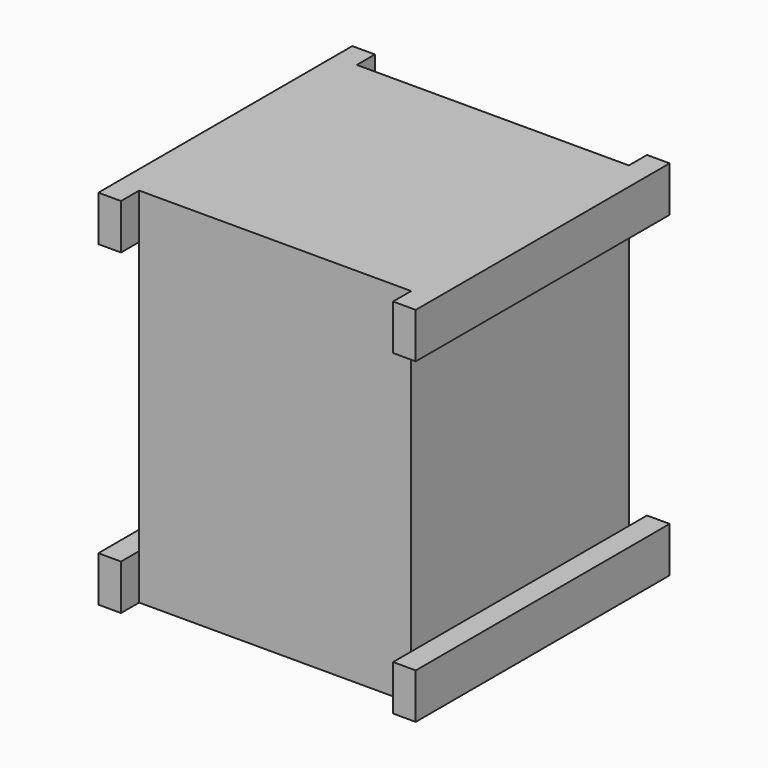
from build123d import *

# Parameters (mm, degrees)
F0_W     = 6
F0_H     = 6
F1_DEPTH = 6
F2_W     = 7
F2_H     = 7
F3_DEPTH = 1
F4_W     = 7
F4_H     = 7
F5_DEPTH = 1
F6_W     = 6
F6_H     = 0.5
F7_DEPTH = 8.001


with BuildPart() as f1:
    # F0 (on Top) → F1 (new body)
    with BuildSketch(Plane.XY):
        Rectangle(F0_W, F0_H)
    extrude(amount=F1_DEPTH)

    # F2 (on face) → F3 (join)
    with BuildSketch(Plane.XY.offset(6)):
        Rectangle(F2_W, F2_H)
    extrude(amount=F3_DEPTH)

    # F4 (on face) → F5 (join)
    with BuildSketch(Plane(origin=(0, 0, 0), x_dir=(1, 0, 0), z_dir=(0, 0, -1))):
        Rectangle(F4_W, F4_H)
    extrude(amount=F5_DEPTH)

    # F6 (on face) → F7 (cut, through all)
    with BuildSketch(Plane.XY.offset(7)):
        with Locations((0, 3.25)):
            Rectangle(F6_W, F6_H)
        with Locations((0, -3.25)):
            Rectangle(F6_W, F6_H)
    extrude(amount=-F7_DEPTH, mode=Mode.SUBTRACT)


solid = f1.part
